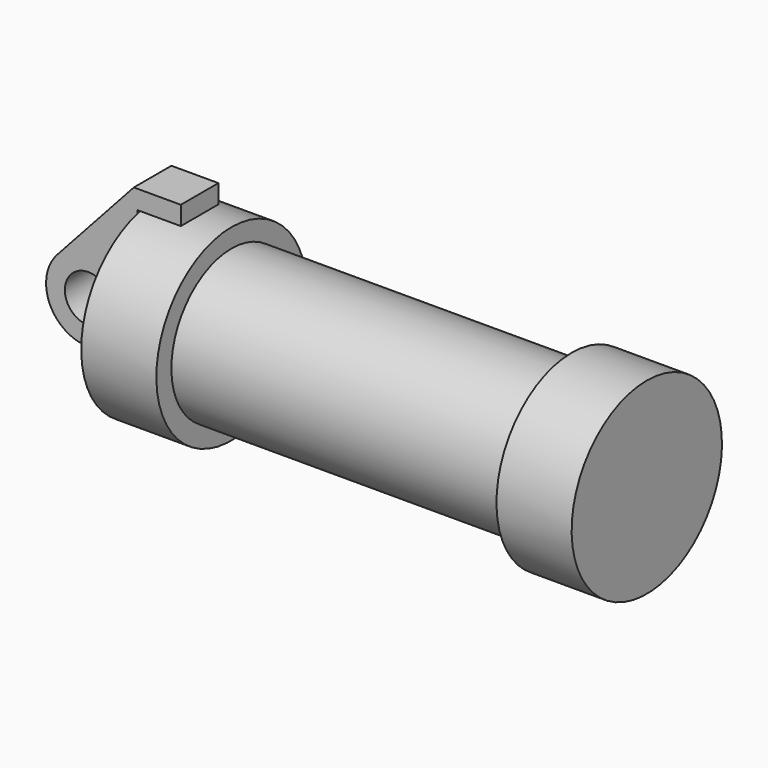
from build123d import *

# Parameters (mm, degrees)
F0_R     = 3.175
F1_DEPTH = 3.175
F0_W     = 5.842
F0_H     = 12.7


with BuildPart() as f1:
    # F0 (on Front) → F1 (new body, symmetric)
    with BuildSketch(Plane.XZ):
        with BuildLine():
            Line((-0.9398, 0), (0, 0))
            Line((0, 0), (0, 12.7))
            Line((0, 12.7), (5.842, 12.7))
            Line((5.842, 12.7), (5.842, 15.24))
            Line((5.842, 15.24), (-0.508, 15.24))
            Line((-0.508, 15.24), (-10.88063, 3.847543))
            ThreePointArc((-10.88063, 3.847543), (-4.591961, 5.329721), (-0.9398, 0))
        make_face()
        with BuildLine():
            ThreePointArc((-8.182663, -5.506983), (-3.195791, -4.549339), (-0.9398, 0))
            ThreePointArc((-0.9398, 0), (-4.591961, 5.329721), (-10.88063, 3.847543))
            ThreePointArc((-10.88063, 3.847543), (-12.145978, -1.583727), (-8.182663, -5.506983))
        make_face()
        with Locations((-6.6548, 0)):
            Circle(F0_R, mode=Mode.SUBTRACT)
    extrude(amount=F1_DEPTH, both=True)


with BuildPart() as f2:
    # F0 (on Front) → F2 (revolve)
    with BuildSketch(Plane.XZ):
        Polygon((5.842, 12.7), (5.842, 0), (66.294, 0), (66.294, 12.7), (56.134, 12.7), (56.134, 10.16), (10.16, 10.16), (10.16, 12.7), align=None)
        with Locations((2.921, 6.35)):
            Rectangle(F0_W, F0_H)
    revolve(axis=Axis((33.147, 0, 0), (-1, 0, 0)))


solid = Compound([f1.part, f2.part])
